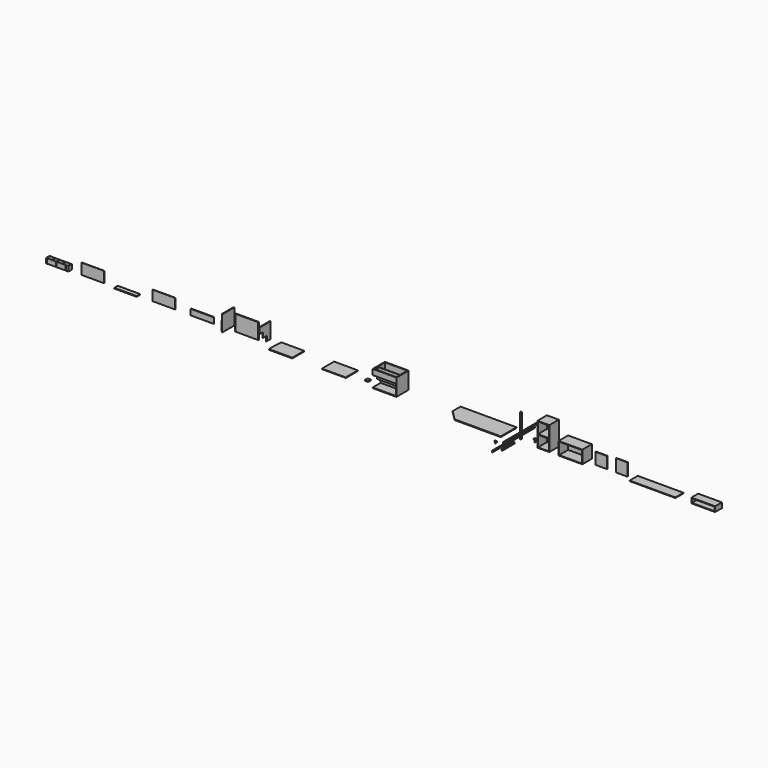
from build123d import *

# Parameters (mm, degrees)
F0_W       = 1650
F0_H       = 580
F1_DEPTH   = 21
F2_W       = 18
F2_H       = 1560
F3_DEPTH   = 40
F4_W       = 18
F4_H       = 452
F5_DEPTH   = 40
F7_DEPTH   = 40
F9_DEPTH   = 700
F11_DEPTH  = 21
F12_W      = 18
F12_H      = 1270
F13_DEPTH  = 40
F14_W      = 350
F14_H      = 350
F15_DEPTH  = 700
F16_W      = 318
F16_H      = 326
F17_DEPTH  = 334
F18_W      = 700
F18_H      = 350
F19_DEPTH  = 380
F20_W      = 668
F20_H      = 348
F21_DEPTH  = 334
F22_W      = 340
F22_H      = 16
F23_DEPTH  = 340
F24_W      = 340
F24_H      = 16
F25_DEPTH  = 370
F26_W      = 1350
F26_H      = 300
F27_DEPTH  = 16
F28_W      = 60
F28_H      = 60
F29_DEPTH  = 90
F33_W      = 700
F33_H      = 250
F34_DEPTH  = 150
F35_W      = 668
F35_H      = 118
F36_DEPTH  = 334
F37_W      = 700
F37_H      = 450
F38_DEPTH  = 500
F40_DEPTH  = 680
F41_W      = 660
F41_H      = 130
F42_DEPTH  = 480
F43_W      = 660
F43_H      = 130
F44_DEPTH  = 310
F45_W      = 660
F45_H      = 130
F46_DEPTH  = 150
F47_W      = 660
F47_H      = 10
F48_DEPTH  = 150
F49_W      = 100
F49_H      = 100
F50_DEPTH  = 20
F51_W      = 700
F51_H      = 450
F52_DEPTH  = 20
F54_DEPTH  = 700
F55_W      = 700
F55_H      = 450
F56_DEPTH  = 20
F58_DEPTH  = 20
F59_W      = 20
F59_H      = 450
F60_DEPTH  = 470
F62_DEPTH  = 470
F63_W      = 10
F63_H      = 20
F64_DEPTH  = 470
F66_DEPTH  = 20
F68_DEPTH  = 470
F69_W      = 700
F69_H      = 20
F70_DEPTH  = 470
F71_W      = 10
F71_H      = 20
F72_DEPTH  = 700
F74_DEPTH  = 470
F75_W      = 20
F75_H      = 450
F76_DEPTH  = 470
F78_DEPTH  = 470
F79_W      = 10
F79_H      = 20
F80_DEPTH  = 450
F82_DEPTH  = 170
F83_W      = 700
F83_H      = 20
F84_DEPTH  = 170
F86_DEPTH  = 170
F87_W      = 660
F87_H      = 10
F88_DEPTH  = 300
F89_W      = 660
F89_H      = 130
F90_DEPTH  = 20
F91_W      = 660
F91_H      = 10
F92_DEPTH  = 320
F93_W      = 660
F93_H      = 125
F94_DEPTH  = 142
F95_W      = 0.5
F95_H      = 125
F96_DEPTH  = 140
F97_W      = 700
F97_H      = 2
F98_DEPTH  = 0.1
F99_W      = 450
F99_H      = 2
F100_DEPTH = 0.1
F101_W     = 450
F101_H     = 2
F102_DEPTH = 0.1
F103_W     = 700
F103_H     = 2
F104_DEPTH = 0.1


with BuildPart() as f1:
    # F0 (on Top) → F1 (new body)
    with BuildSketch(Plane.XY):
        Rectangle(F0_W, F0_H)
    extrude(amount=F1_DEPTH)

    # F10 (on face) → F11 (cut, through all)
    with BuildSketch(Plane.XY.offset(21)):
        Polygon((-535, -290), (-825, 0), (-825, -290), align=None)
    extrude(amount=-F11_DEPTH, mode=Mode.SUBTRACT)


with BuildPart() as f3:
    # F2 (on Top) → F3 (new body)
    with BuildSketch(Plane.XY):
        with Locations((1142.6394881876, -224.5004785061)):
            Rectangle(F2_W, F2_H)
    extrude(amount=F3_DEPTH)


with BuildPart() as f5:
    # F4 (on Top) → F5 (new body)
    with BuildSketch(Plane.XY):
        with Locations((1267.1737542152, -577.0257989092)):
            Rectangle(F4_W, F4_H)
    extrude(amount=F5_DEPTH)


with BuildPart() as f7:
    # F6 (on Top) → F7 (new body)
    with BuildSketch(Plane.XY):
        Polygon((863.6630773544, -561.7139935493), (923.6630773544, -561.7139935493), (923.6630773544, -621.7139935493), (925.6630773544, -621.7139935493), (925.6630773544, -559.7139935493), (863.6630773544, -559.7139935493), align=None)
    extrude(amount=F7_DEPTH)


with BuildPart() as f9:
    # F8 (on Top) → F9 (new body)
    with BuildSketch(Plane.XY):
        with BuildLine():
            ThreePointArc((1256.4488677979, -53.7655249834), (1242.4488677979, -48.0483818405), (1228.4488677979, -53.7655249834))
            Line((1228.4488677979, -53.7655249834), (1228.4488677979, -90.7655249834))
            ThreePointArc((1228.4488677979, -90.7655249834), (1242.4488677979, -96.4826681263), (1256.4488677979, -90.7655249834))
            Line((1256.4488677979, -90.7655249834), (1256.4488677979, -53.7655249834))
        make_face()
    extrude(amount=F9_DEPTH)


with BuildPart() as f13:
    # F12 (on Top) → F13 (new body)
    with BuildSketch(Plane.XY):
        with Locations((1073.9744272232, 120.2386713028)):
            Rectangle(F12_W, F12_H)
    extrude(amount=F13_DEPTH)


with BuildPart() as f15:
    # F14 (on Top) → F15 (new body)
    with BuildSketch(Plane.XY):
        with Locations((1988.4566068649, 0)):
            Rectangle(F14_W, F14_H)
    extrude(amount=F15_DEPTH)

    # F16 (on face) → F17 (cut)
    with BuildSketch(Plane.XZ.offset(175)):
        with Locations((1988.4566068649, 521)):
            Rectangle(F16_W, F16_H)
        with Locations((1988.4566068649, 179)):
            Rectangle(F16_W, F16_H)
    extrude(amount=-F17_DEPTH, mode=Mode.SUBTRACT)


with BuildPart() as f19:
    # F18 (on Top) → F19 (new body)
    with BuildSketch(Plane.XY):
        with Locations((2786.1820220947, 0)):
            Rectangle(F18_W, F18_H)
    extrude(amount=F19_DEPTH)

    # F20 (on face) → F21 (cut)
    with BuildSketch(Plane.XZ.offset(175)):
        with Locations((2786.1820220947, 190)):
            Rectangle(F20_W, F20_H)
    extrude(amount=-F21_DEPTH, mode=Mode.SUBTRACT)


with BuildPart() as f23:
    # F22 (on Top) → F23 (new body)
    with BuildSketch(Plane.XY):
        with Locations((3558.2280921936, 0)):
            Rectangle(F22_W, F22_H)
    extrude(amount=F23_DEPTH)


with BuildPart() as f25:
    # F24 (on Top) → F25 (new body)
    with BuildSketch(Plane.XY):
        with Locations((4160.2554321289, 0)):
            Rectangle(F24_W, F24_H)
    extrude(amount=F25_DEPTH)


with BuildPart() as f27:
    # F26 (on Top) → F27 (new body)
    with BuildSketch(Plane.XY):
        with Locations((5184.1821670532, 0)):
            Rectangle(F26_W, F26_H)
    extrude(amount=F27_DEPTH)


with BuildPart() as f29:
    # F28 (on Top) → F29 (new body)
    with BuildSketch(Plane.XY):
        with Locations((1600, 0)):
            Rectangle(F28_W, F28_H)
    extrude(amount=F29_DEPTH)

    # F31 (on Front) → F32 (revolve, cut)
    with BuildSketch(Plane.XZ):
        Polygon((1615, 83), (1615, 0), (1649.6694087982, 0), (1649.6694087982, 85), (1630, 85), (1620, 85), align=None)
    revolve(axis=Axis((1600, 0, 58.234269172), (0, 0, -1)), mode=Mode.SUBTRACT)


with BuildPart() as f34:
    # F33 (on Top) → F34 (new body)
    with BuildSketch(Plane.XY):
        with Locations((6659.9960327148, 0)):
            Rectangle(F33_W, F33_H)
    extrude(amount=F34_DEPTH)

    # F35 (on face) → F36 (cut)
    with BuildSketch(Plane.XZ.offset(125)):
        with Locations((6659.9960327148, 75)):
            Rectangle(F35_W, F35_H)
    extrude(amount=-F36_DEPTH, mode=Mode.SUBTRACT)


with BuildPart() as f38:
    # F37 (on Top) → F38 (new body)
    with BuildSketch(Plane.XY):
        with Locations((-2651.1743068695, 0)):
            Rectangle(F37_W, F37_H)
    extrude(amount=F38_DEPTH)

    # F39 (on face) → F40 (cut)
    with BuildSketch(Plane(origin=(-3001.1743068695, 0, 0), x_dir=(0, -1, 0), z_dir=(-1, 0, 0))):
        Polygon((-65, 20), (225, 20), (225, 340), (75, 340), (75, 180), (-65, 180), align=None)
    extrude(amount=-F40_DEPTH, mode=Mode.SUBTRACT)

    # F41 (on face) → F42 (cut)
    with BuildSketch(Plane.XY.offset(500)):
        with Locations((-2651.1743068695, 140)):
            Rectangle(F41_W, F41_H)
    extrude(amount=-F42_DEPTH, mode=Mode.SUBTRACT)

    # F43 (on face) → F44 (cut)
    with BuildSketch(Plane.XY.offset(500)):
        with Locations((-2651.1743068695, 0)):
            Rectangle(F43_W, F43_H)
    extrude(amount=-F44_DEPTH, mode=Mode.SUBTRACT)

    # F45 (on face) → F46 (cut)
    with BuildSketch(Plane.XY.offset(500)):
        with Locations((-2651.1743068695, -140)):
            Rectangle(F45_W, F45_H)
    extrude(amount=-F46_DEPTH, mode=Mode.SUBTRACT)

    # F47 (on face) → F48 (cut)
    with BuildSketch(Plane.XY.offset(500)):
        with Locations((-2651.1743068695, 70)):
            Rectangle(F47_W, F47_H)
    extrude(amount=-F48_DEPTH, mode=Mode.SUBTRACT)


with BuildPart() as f50:
    # F49 (on Top) → F50 (new body)
    with BuildSketch(Plane.XY):
        with Locations((-3323.278427124, 0)):
            Rectangle(F49_W, F49_H)
    extrude(amount=F50_DEPTH)


with BuildPart() as f52:
    # F51 (on Top) → F52 (new body)
    with BuildSketch(Plane.XY):
        with Locations((-4149.441242218, 0)):
            Rectangle(F51_W, F51_H)
    extrude(amount=F52_DEPTH)

    # F53 (on face) → F54 (cut)
    with BuildSketch(Plane(origin=(-4499.441242218, 0, 0), x_dir=(0, -1, 0), z_dir=(-1, 0, 0))):
        Polygon((225, 0), (225, 10), (215, 0), align=None)
    extrude(amount=-F54_DEPTH, mode=Mode.SUBTRACT)

    # F97 (on face) → F98 (cut)
    with BuildSketch(Plane.XZ.offset(225)):
        with Locations((-4149.441242218, 17)):
            Rectangle(F97_W, F97_H)
        with Locations((-4149.441242218, 13)):
            Rectangle(F97_W, F97_H)
        with Locations((-4149.441242218, 9)):
            Rectangle(F97_W, F97_H)
        with Locations((-4149.441242218, 5)):
            Rectangle(F97_W, F97_H)
        with Locations((-4149.441242218, 1)):
            Rectangle(F97_W, F97_H)
    extrude(amount=-F98_DEPTH, mode=Mode.SUBTRACT)

    # F99 (on face) → F100 (cut)
    with BuildSketch(Plane(origin=(-4499.441242218, 0, 0), x_dir=(0, -1, 0), z_dir=(-1, 0, 0))):
        with Locations((0, 17)):
            Rectangle(F99_W, F99_H)
        with Locations((0, 13)):
            Rectangle(F99_W, F99_H)
        with Locations((0, 9)):
            Rectangle(F99_W, F99_H)
        with Locations((0, 5)):
            Rectangle(F99_W, F99_H)
        with Locations((0, 1)):
            Rectangle(F99_W, F99_H)
    extrude(amount=-F100_DEPTH, mode=Mode.SUBTRACT)

    # F101 (on face) → F102 (cut)
    with BuildSketch(Plane.YZ.offset(-3799.441242218)):
        with Locations((0, 17)):
            Rectangle(F101_W, F101_H)
        with Locations((0, 13)):
            Rectangle(F101_W, F101_H)
        with Locations((0, 9)):
            Rectangle(F101_W, F101_H)
        with Locations((0, 5)):
            Rectangle(F101_W, F101_H)
        with Locations((0, 1)):
            Rectangle(F101_W, F101_H)
    extrude(amount=-F102_DEPTH, mode=Mode.SUBTRACT)

    # F103 (on face) → F104 (cut)
    with BuildSketch(Plane(origin=(0, 225, 0), x_dir=(-1, 0, 0), z_dir=(0, 1, 0))):
        with Locations((4149.441242218, 17)):
            Rectangle(F103_W, F103_H)
        with Locations((4149.441242218, 13)):
            Rectangle(F103_W, F103_H)
        with Locations((4149.441242218, 9)):
            Rectangle(F103_W, F103_H)
        with Locations((4149.441242218, 5)):
            Rectangle(F103_W, F103_H)
        with Locations((4149.441242218, 1)):
            Rectangle(F103_W, F103_H)
    extrude(amount=-F104_DEPTH, mode=Mode.SUBTRACT)


with BuildPart() as f56:
    # F55 (on Top) → F56 (new body)
    with BuildSketch(Plane.XY):
        with Locations((-5710.663318634, 0)):
            Rectangle(F55_W, F55_H)
    extrude(amount=F56_DEPTH)

    # F57 (on face) → F58 (cut)
    with BuildSketch(Plane.XY.offset(20)):
        Polygon((-6060.663318634, 225), (-6060.663318634, 65), (-6050.663318634, 65), (-6050.663318634, 215), (-5370.663318634, 215), (-5370.663318634, -225), (-5360.663318634, -225), (-5360.663318634, 225), align=None)
    extrude(amount=-F58_DEPTH, mode=Mode.SUBTRACT)


with BuildPart() as f60:
    # F59 (on Top) → F60 (new body)
    with BuildSketch(Plane.XY):
        with Locations((-6363.6779785156, 0)):
            Rectangle(F59_W, F59_H)
    extrude(amount=F60_DEPTH)

    # F61 (on face) → F62 (cut)
    with BuildSketch(Plane.XY.offset(470)):
        Polygon((-6353.6779785156, 225), (-6373.6779785156, 225), (-6353.6779785156, 205), align=None)
    extrude(amount=-F62_DEPTH, mode=Mode.SUBTRACT)

    # F63 (on face) → F64 (cut)
    with BuildSketch(Plane.XZ.offset(225)):
        with Locations((-6358.6779785156, 10)):
            Rectangle(F63_W, F63_H)
    extrude(amount=-F64_DEPTH, mode=Mode.SUBTRACT)

    # F65 (on face) → F66 (cut)
    with BuildSketch(Plane(origin=(-6373.6779785156, 0, 0), x_dir=(0, -1, 0), z_dir=(-1, 0, 0))):
        Polygon((-65, 0), (225, 0), (225, 300), (75, 300), (75, 150), (-65, 150), align=None)
    extrude(amount=-F66_DEPTH, mode=Mode.SUBTRACT)

    # F67 (on face) → F68 (cut)
    with BuildSketch(Plane.XY.offset(470)):
        Polygon((-6353.6779785156, -205), (-6373.6779785156, -225), (-6353.6779785156, -225), align=None)
    extrude(amount=-F68_DEPTH, mode=Mode.SUBTRACT)


with BuildPart() as f70:
    # F69 (on Top) → F70 (new body)
    with BuildSketch(Plane.XY):
        with Locations((-6889.2502784729, 0)):
            Rectangle(F69_W, F69_H)
    extrude(amount=F70_DEPTH)

    # F71 (on face) → F72 (cut)
    with BuildSketch(Plane(origin=(-7239.2502784729, 0, 0), x_dir=(0, -1, 0), z_dir=(-1, 0, 0))):
        with Locations((5, 10)):
            Rectangle(F71_W, F71_H)
    extrude(amount=-F72_DEPTH, mode=Mode.SUBTRACT)

    # F73 (on face) → F74 (cut)
    with BuildSketch(Plane.XY.offset(470)):
        Polygon((-7219.2502784729, -10), (-7239.2502784729, 10), (-7239.2502784729, -10), align=None)
        Polygon((-6539.2502784729, -10), (-6539.2502784729, 10), (-6559.2502784729, -10), align=None)
    extrude(amount=-F74_DEPTH, mode=Mode.SUBTRACT)


with BuildPart() as f76:
    # F75 (on Top) → F76 (new body)
    with BuildSketch(Plane.XY):
        with Locations((-7448.073387146, 0)):
            Rectangle(F75_W, F75_H)
    extrude(amount=F76_DEPTH)

    # F77 (on face) → F78 (cut)
    with BuildSketch(Plane.XY.offset(470)):
        Polygon((-7458.073387146, 205), (-7438.073387146, 225), (-7458.073387146, 225), align=None)
    extrude(amount=-F78_DEPTH, mode=Mode.SUBTRACT)

    # F79 (on face) → F80 (cut)
    with BuildSketch(Plane.XZ.offset(225)):
        with Locations((-7453.073387146, 10)):
            Rectangle(F79_W, F79_H)
    extrude(amount=-F80_DEPTH, mode=Mode.SUBTRACT)

    # F81 (on face) → F82 (cut)
    with BuildSketch(Plane.XY.offset(470)):
        Polygon((-7458.073387146, -225), (-7438.073387146, -225), (-7458.073387146, -205), align=None)
    extrude(amount=-F82_DEPTH, mode=Mode.SUBTRACT)


with BuildPart() as f84:
    # F83 (on Top) → F84 (new body)
    with BuildSketch(Plane.XY):
        with Locations((-8193.3670043945, 0)):
            Rectangle(F83_W, F83_H)
    extrude(amount=F84_DEPTH)

    # F85 (on face) → F86 (cut)
    with BuildSketch(Plane.XY.offset(170)):
        Polygon((-8543.3670043945, 10), (-8543.3670043945, -10), (-8523.3670043945, 10), align=None)
        Polygon((-7863.3670043945, 10), (-7843.3670043945, -10), (-7843.3670043945, 10), align=None)
    extrude(amount=-F86_DEPTH, mode=Mode.SUBTRACT)


with BuildPart() as f88:
    # F87 (on Top) → F88 (new body)
    with BuildSketch(Plane.XY):
        with Locations((-9329.8530578613, 0)):
            Rectangle(F87_W, F87_H)
    extrude(amount=F88_DEPTH)


with BuildPart() as f90:
    # F89 (on Top) → F90 (new body)
    with BuildSketch(Plane.XY):
        with Locations((-10414.8826599121, 0)):
            Rectangle(F89_W, F89_H)
    extrude(amount=F90_DEPTH)


with BuildPart() as f92:
    # F91 (on Top) → F92 (new body)
    with BuildSketch(Plane.XY):
        with Locations((-11421.368598938, 0)):
            Rectangle(F91_W, F91_H)
    extrude(amount=F92_DEPTH)


with BuildPart() as f94:
    # F93 (on Top) → F94 (new body)
    with BuildSketch(Plane.XY):
        with Locations((-12425.7125854492, 0)):
            Rectangle(F93_W, F93_H)
    extrude(amount=F94_DEPTH)

    # F95 (on face) → F96 (cut)
    with BuildSketch(Plane.XY.offset(142)):
        with Locations((-12745.9625854492, 0)):
            Rectangle(F95_W, F95_H)
        with Locations((-12735.9625854492, 0)):
            Rectangle(F95_W, F95_H)
        with Locations((-12725.9625854492, 0)):
            Rectangle(F95_W, F95_H)
        with Locations((-12715.9625854492, 0)):
            Rectangle(F95_W, F95_H)
        with Locations((-12705.9625854492, 0)):
            Rectangle(F95_W, F95_H)
        with Locations((-12695.9625854492, 0)):
            Rectangle(F95_W, F95_H)
        with Locations((-12685.9625854492, 0)):
            Rectangle(F95_W, F95_H)
        with Locations((-12675.9625854492, 0)):
            Rectangle(F95_W, F95_H)
        with Locations((-12665.9625854492, 0)):
            Rectangle(F95_W, F95_H)
        with Locations((-12655.9625854492, 0)):
            Rectangle(F95_W, F95_H)
        with Locations((-12645.9625854492, 0)):
            Rectangle(F95_W, F95_H)
        with Locations((-12635.9625854492, 0)):
            Rectangle(F95_W, F95_H)
        with Locations((-12625.9625854492, 0)):
            Rectangle(F95_W, F95_H)
        with Locations((-12615.9625854492, 0)):
            Rectangle(F95_W, F95_H)
        with Locations((-12605.9625854492, 0)):
            Rectangle(F95_W, F95_H)
        with Locations((-12595.9625854492, 0)):
            Rectangle(F95_W, F95_H)
        with Locations((-12585.9625854492, 0)):
            Rectangle(F95_W, F95_H)
        with Locations((-12575.9625854492, 0)):
            Rectangle(F95_W, F95_H)
        with Locations((-12565.9625854492, 0)):
            Rectangle(F95_W, F95_H)
        with Locations((-12555.9625854492, 0)):
            Rectangle(F95_W, F95_H)
        with Locations((-12545.9625854492, 0)):
            Rectangle(F95_W, F95_H)
        with Locations((-12535.9625854492, 0)):
            Rectangle(F95_W, F95_H)
        with Locations((-12525.9625854492, 0)):
            Rectangle(F95_W, F95_H)
        with Locations((-12515.9625854492, 0)):
            Rectangle(F95_W, F95_H)
        with Locations((-12505.9625854492, 0)):
            Rectangle(F95_W, F95_H)
        with Locations((-12495.9625854492, 0)):
            Rectangle(F95_W, F95_H)
        with Locations((-12485.9625854492, 0)):
            Rectangle(F95_W, F95_H)
        with Locations((-12475.9625854492, 0)):
            Rectangle(F95_W, F95_H)
        with Locations((-12465.9625854492, 0)):
            Rectangle(F95_W, F95_H)
        with Locations((-12455.9625854492, 0)):
            Rectangle(F95_W, F95_H)
        with Locations((-12445.9625854492, 0)):
            Rectangle(F95_W, F95_H)
        with Locations((-12435.9625854492, 0)):
            Rectangle(F95_W, F95_H)
        with Locations((-12425.9625854492, 0)):
            Rectangle(F95_W, F95_H)
        with Locations((-12415.9625854492, 0)):
            Rectangle(F95_W, F95_H)
        with Locations((-12405.9625854492, 0)):
            Rectangle(F95_W, F95_H)
        with Locations((-12395.9625854492, 0)):
            Rectangle(F95_W, F95_H)
        with Locations((-12385.9625854492, 0)):
            Rectangle(F95_W, F95_H)
        with Locations((-12375.9625854492, 0)):
            Rectangle(F95_W, F95_H)
        with Locations((-12365.9625854492, 0)):
            Rectangle(F95_W, F95_H)
        with Locations((-12355.9625854492, 0)):
            Rectangle(F95_W, F95_H)
        with Locations((-12345.9625854492, 0)):
            Rectangle(F95_W, F95_H)
        with Locations((-12335.9625854492, 0)):
            Rectangle(F95_W, F95_H)
        with Locations((-12325.9625854492, 0)):
            Rectangle(F95_W, F95_H)
        with Locations((-12315.9625854492, 0)):
            Rectangle(F95_W, F95_H)
        with Locations((-12305.9625854492, 0)):
            Rectangle(F95_W, F95_H)
        with Locations((-12295.9625854492, 0)):
            Rectangle(F95_W, F95_H)
        with Locations((-12285.9625854492, 0)):
            Rectangle(F95_W, F95_H)
        with Locations((-12275.9625854492, 0)):
            Rectangle(F95_W, F95_H)
        with Locations((-12265.9625854492, 0)):
            Rectangle(F95_W, F95_H)
        with Locations((-12255.9625854492, 0)):
            Rectangle(F95_W, F95_H)
        with Locations((-12245.9625854492, 0)):
            Rectangle(F95_W, F95_H)
        with Locations((-12235.9625854492, 0)):
            Rectangle(F95_W, F95_H)
        with Locations((-12225.9625854492, 0)):
            Rectangle(F95_W, F95_H)
        with Locations((-12215.9625854492, 0)):
            Rectangle(F95_W, F95_H)
        with Locations((-12205.9625854492, 0)):
            Rectangle(F95_W, F95_H)
        with Locations((-12195.9625854492, 0)):
            Rectangle(F95_W, F95_H)
        with Locations((-12185.9625854492, 0)):
            Rectangle(F95_W, F95_H)
        with Locations((-12175.9625854492, 0)):
            Rectangle(F95_W, F95_H)
        with Locations((-12165.9625854492, 0)):
            Rectangle(F95_W, F95_H)
        with Locations((-12155.9625854492, 0)):
            Rectangle(F95_W, F95_H)
        with Locations((-12145.9625854492, 0)):
            Rectangle(F95_W, F95_H)
        with Locations((-12135.9625854492, 0)):
            Rectangle(F95_W, F95_H)
        with Locations((-12125.9625854492, 0)):
            Rectangle(F95_W, F95_H)
        with Locations((-12115.9625854492, 0)):
            Rectangle(F95_W, F95_H)
        with Locations((-12105.9625854492, 0)):
            Rectangle(F95_W, F95_H)
        with Locations((-12095.9625854492, 0)):
            Rectangle(F95_W, F95_H)
    extrude(amount=-F96_DEPTH, mode=Mode.SUBTRACT)


solid = Compound([f1.part, f3.part, f5.part, f7.part, f9.part, f13.part, f15.part, f19.part, f23.part, f25.part, f27.part, f29.part, f34.part, f38.part, f50.part, f52.part, f56.part, f60.part, f70.part, f76.part, f84.part, f88.part, f90.part, f92.part, f94.part])
